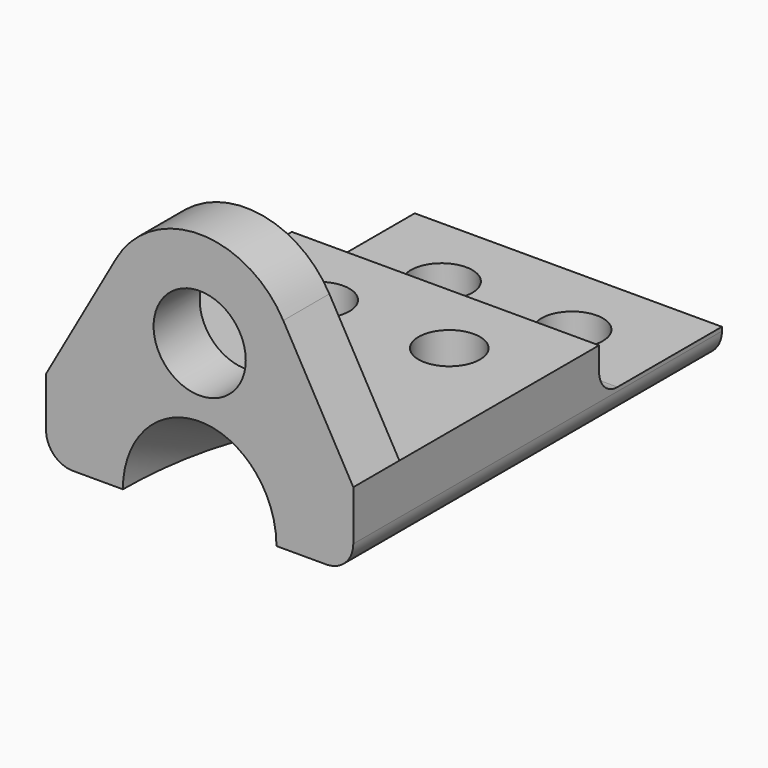
from build123d import *

# Parameters (mm, degrees)
F0_W           = 80
F0_H           = 20
F1_DEPTH       = 120
F0_R           = 12
F2_DEPTH       = 15
F3_W           = 80
F3_H           = 40
F4_DEPTH       = 12
F5_R           = 6
F6_R           = 7
F7_R           = 8
F8_DEPTH       = 20
F10_R          = 20
F11_DEPTH      = 108.7579344444
F11_DEPTH_BACK = 27.4711870131


with BuildPart() as f1:
    # F0 (on Front) → F1 (new body)
    with BuildSketch(Plane.XZ):
        with Locations((0, 10)):
            Rectangle(F0_W, F0_H)
    extrude(amount=-F1_DEPTH)

    # F0 (on Front) → F2 (join)
    with BuildSketch(Plane.XZ):
        with BuildLine():
            Line((40, 20), (21.7702481089, 52.2904962177))
            ThreePointArc((21.7702481089, 52.2904962177), (0, 65), (-21.7702481089, 52.2904962177))
            Line((-21.7702481089, 52.2904962177), (-40, 20))
            Line((-40, 20), (40, 20))
        make_face()
        with Locations((0, 40)):
            Circle(F0_R, mode=Mode.SUBTRACT)
    extrude(amount=-F2_DEPTH)

    # F3 (on face) → F4 (cut)
    with BuildSketch(Plane.XY.offset(20)):
        with Locations((0, 100)):
            Rectangle(F3_W, F3_H)
    extrude(amount=-F4_DEPTH, mode=Mode.SUBTRACT)

    # F5
    f5_edges = [f1.edges().sort_by_distance(p)[0] for p in [
        (0, 80, 8),
    ]]
    fillet(f5_edges, radius=F5_R)

    # F6
    f6_edges = [f1.edges().sort_by_distance(p)[0] for p in [
        (40, 60, 0),
        (-40, 60, 0),
    ]]
    fillet(f6_edges, radius=F6_R)

    # F7 (on face) → F8 (cut, through all)
    with BuildSketch(Plane(origin=(0, 0, 0), x_dir=(1, 0, 0), z_dir=(0, 0, -1))):
        with Locations((17, -60)):
            Circle(F7_R)
        with Locations((17, -100)):
            Circle(F7_R)
        with Locations((-17, -100)):
            Circle(F7_R)
        with Locations((-17, -60)):
            Circle(F7_R)
    extrude(amount=-F8_DEPTH, mode=Mode.SUBTRACT)

    # F10 (on line) → F11 (cut, two sides)
    with BuildSketch(Plane(origin=(0, 0, 0), x_dir=(1, 0, 0), z_dir=(0, -0.906307787, 0.4226182617))) as f11_sk:
        Circle(F10_R)
    extrude(amount=-F11_DEPTH, mode=Mode.SUBTRACT)
    extrude(f11_sk.sketch, amount=F11_DEPTH_BACK, mode=Mode.SUBTRACT)


solid = f1.part
